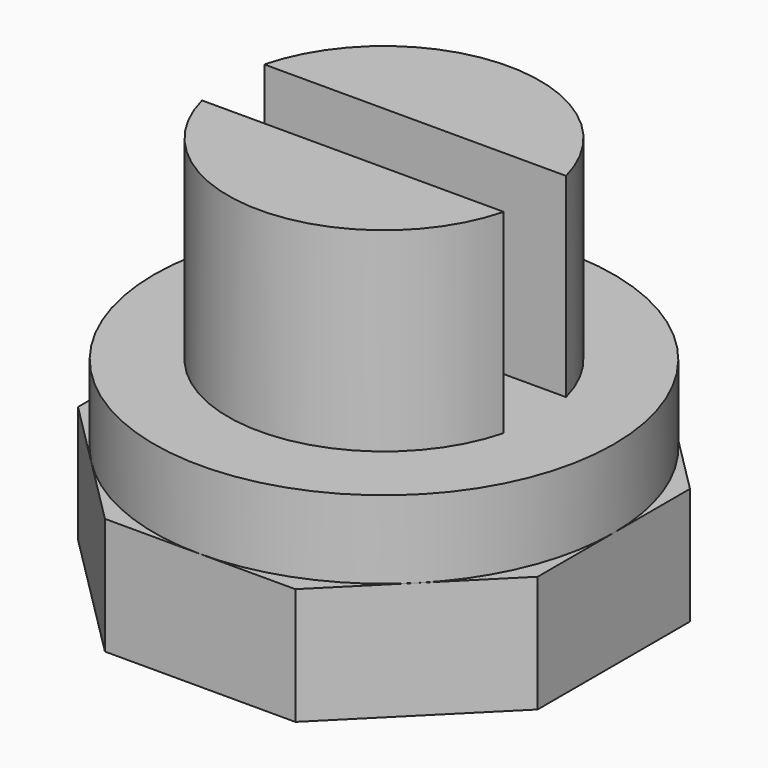
from build123d import *

# Parameters (mm, degrees)
F1_DEPTH = 3
F2_R     = 5.9
F3_DEPTH = 2
F5_DEPTH = 5
F6_R     = 2.5
F7_DEPTH = 3


with BuildPart() as f1:
    # F0 (on Top) → F1 (new body)
    with BuildSketch(Plane.XY):
        Polygon((-2.44386, -5.9), (2.44386, -5.9), (5.9, -2.44386), (5.9, 2.44386), (2.44386, 5.9), (-2.44386, 5.9), (-5.9, 2.44386), (-5.9, -2.44386), align=None)
        Polygon((-1.615433, -3.9), (-3.9, -1.615433), (-3.9, 1.615433), (-1.615433, 3.9), (1.615433, 3.9), (3.9, 1.615433), (3.9, -1.615433), (1.615433, -3.9), align=None, mode=Mode.SUBTRACT)
    extrude(amount=F1_DEPTH)

    # F2 (on face) → F3 (join)
    with BuildSketch(Plane.XY.offset(3)):
        Circle(F2_R)
    extrude(amount=F3_DEPTH)

    # F4 (on face) → F5 (join)
    with BuildSketch(Plane.XY.offset(5)):
        with BuildLine():
            ThreePointArc((3.872983, 1), (0, 4), (-3.872983, 1))
            Line((-3.872983, 1), (3.872983, 1))
        make_face()
        with BuildLine():
            ThreePointArc((-3.872983, -1), (0, -4), (3.872983, -1))
            Line((3.872983, -1), (-3.872983, -1))
        make_face()
    extrude(amount=F5_DEPTH)

    # F6 (on face) → F7 (join, through all)
    with BuildSketch(Plane(origin=(0, 0, 3), x_dir=(1, 0, 0), z_dir=(0, 0, -1))):
        Circle(F6_R)
    extrude(amount=F7_DEPTH)


solid = f1.part
